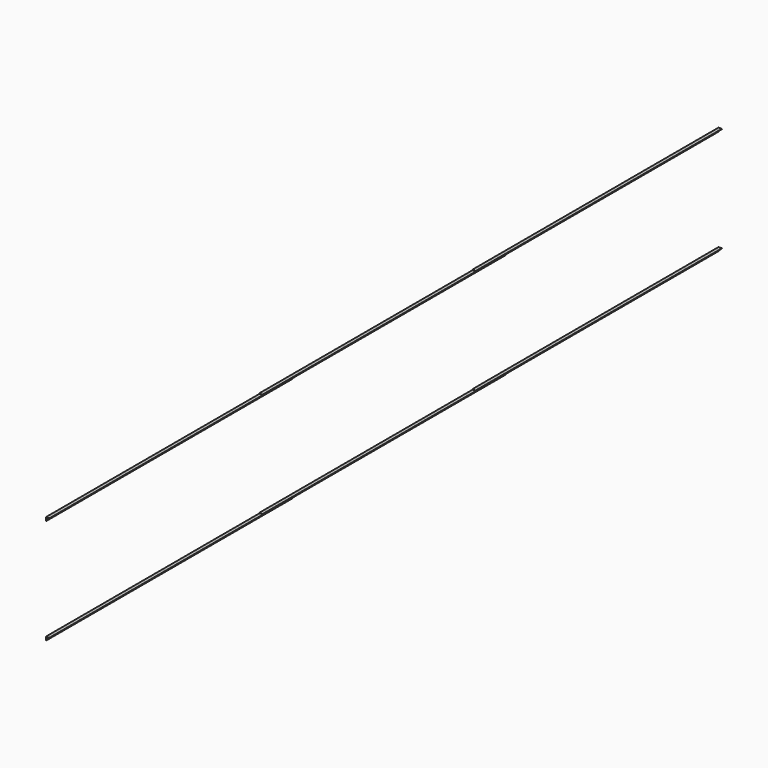
from build123d import *

# Parameters (mm, degrees)
PAD013_DEPTH         = 3000
CLONE001_PITCH_ANGLE = 90
ARRAY005_Y_COUNT     = 3
ARRAY005_Y_PITCH     = 2600.0034615362
ARRAY005_Z_COUNT     = 2
ARRAY005_Z_PITCH     = 1025


with BuildPart() as array005:
    # Sketch015 → Pad013 (new body)
    with BuildSketch(Plane(origin=(117.4999999985, 105.0000000003, 483.0000000002), x_dir=(1, 0, 0), z_dir=(0, -1, 0))):
        Polygon((0, 0), (30, 0), (30, -3), (-3, -3), (-3, 30), (0, 30), align=None)
    extrude(amount=-PAD013_DEPTH)


with BuildPart() as array005_1:
    # Clone001 pitch: moved
    add(array005.part.rotate(Axis((0, 0, 0), (0, 1, 0)), CLONE001_PITCH_ANGLE))


with BuildPart() as array005_2:
    # Clone001 placement: moved
    add(array005_1.part.moved(Location((-365.5000000025, -3e-10, 1592.5000000008))))


with BuildPart() as array005_copy1:
    # Array005 Y: instance of Array005
    add(array005_2.part.moved(Location(Vector(-0.0011538446, 0.9999986686, 0.0011538446) * (1 * ARRAY005_Y_PITCH))))


with BuildPart() as array005_copy2:
    # Array005 Y: instance of Array005
    add(array005_2.part.moved(Location(Vector(-0.0011538446, 0.9999986686, 0.0011538446) * (2 * ARRAY005_Y_PITCH))))


with BuildPart() as array005_copy3:
    # Array005 Z: instance of Array005
    add(array005_2.part.moved(Location(Vector(0, 0, 1) * (1 * ARRAY005_Z_PITCH))))


with BuildPart() as array005_copy4:
    # Array005 Z: instance of Array005 copy1
    add(array005_copy1.part.moved(Location(Vector(0, 0, 1) * (1 * ARRAY005_Z_PITCH))))


with BuildPart() as array005_copy5:
    # Array005 Z: instance of Array005 copy2
    add(array005_copy2.part.moved(Location(Vector(0, 0, 1) * (1 * ARRAY005_Z_PITCH))))


solid = Compound([array005_2.part, array005_copy1.part, array005_copy2.part, array005_copy3.part, array005_copy4.part, array005_copy5.part])
